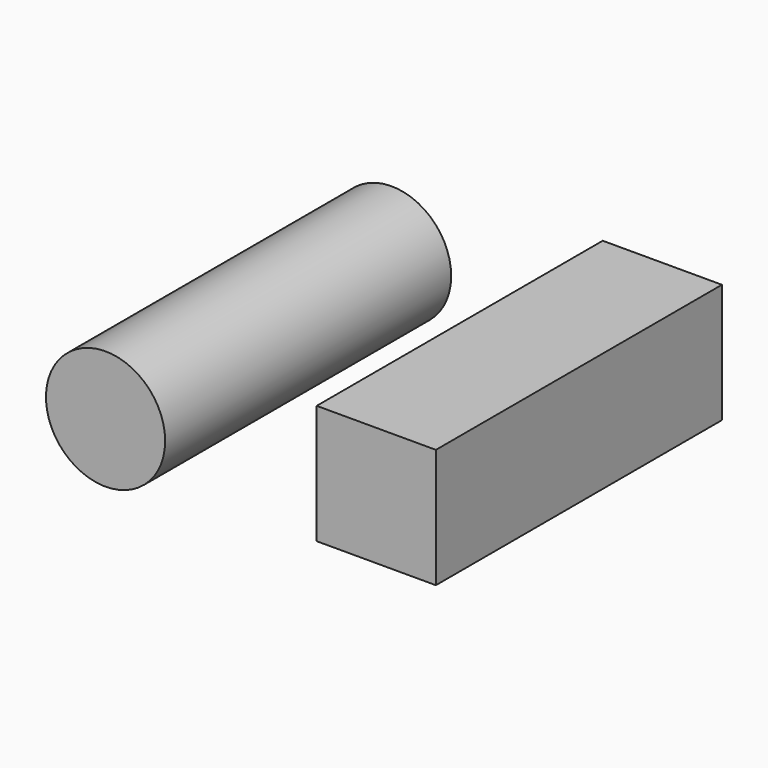
from build123d import *

# Parameters (mm, degrees)
F0_R     = 12.7
F0_W     = 25.4
F0_H     = 25.4
F1_DEPTH = 76.2


with BuildPart() as f1:
    # F0 (on Front) → F1 (new body)
    with BuildSketch(Plane.XZ):
        with Locations((-44.910796, 22.961151)):
            Circle(F0_R)
        with Locations((12.789911, 27.366814)):
            Rectangle(F0_W, F0_H)
    extrude(amount=F1_DEPTH)


solid = f1.part
